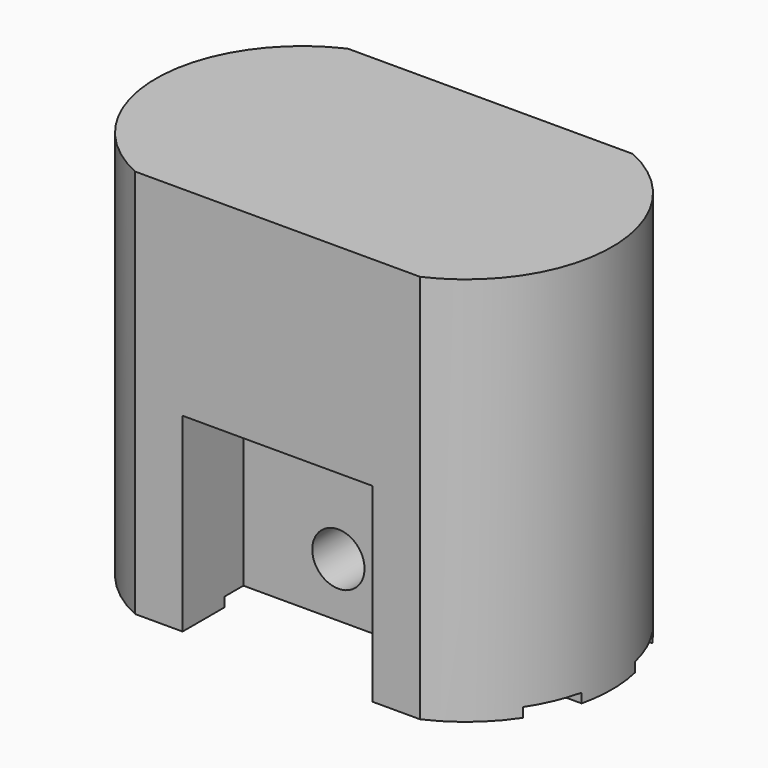
from build123d import *

# Parameters (mm, degrees)
F1_DEPTH = 65.0875
F2_W     = 31.75
F2_H     = 8.73125
F3_DEPTH = 31.75
F4_DEPTH = 1.5875
F6_D     = 8.7376


with BuildPart() as f1:
    # F0 (on Top) → F1 (new body)
    with BuildSketch(Plane.XY):
        with BuildLine():
            ThreePointArc((-23.8125, 22.225), (-38.1, 0), (-23.8125, -22.225))
            Line((-23.8125, -22.225), (23.8125, -22.225))
            ThreePointArc((23.8125, -22.225), (38.1, 0), (23.8125, 22.225))
            Line((23.8125, 22.225), (-23.8125, 22.225))
        make_face()
    extrude(amount=F1_DEPTH)

    # F2 (on face) → F3 (cut)
    with BuildSketch(Plane(origin=(0, 0, 0), x_dir=(1, 0, 0), z_dir=(0, 0, -1))):
        with Locations((0, 17.859375)):
            Rectangle(F2_W, F2_H)
        Polygon((15.875, 13.49375), (-15.875, 13.49375), (-15.875, 9.525), (0, 9.525), (15.875, 9.525), align=None)
        with Locations((0, -17.859375)):
            Rectangle(F2_W, F2_H)
        Polygon((-15.875, -9.525), (-15.875, -13.49375), (15.875, -13.49375), (15.875, -9.525), (0, -9.525), align=None)
    extrude(amount=-F3_DEPTH, mode=Mode.SUBTRACT)

    # F2 (on face) → F4 (cut)
    with BuildSketch(Plane(origin=(0, 0, 0), x_dir=(1, 0, 0), z_dir=(0, 0, -1))):
        with BuildLine():
            Line((-15.875, 13.49375), (-34.0352272718, 13.49375))
            ThreePointArc((-34.0352272718, 13.49375), (-36.1013811244, 9.6776797674), (-37.4597626742, 5.55625))
            Line((-37.4597626742, 5.55625), (37.4597626742, 5.55625))
            ThreePointArc((37.4597626742, 5.55625), (36.1013811244, 9.6776797674), (34.0352272718, 13.49375))
            Line((34.0352272718, 13.49375), (15.875, 13.49375))
            Line((15.875, 13.49375), (15.875, 9.525))
            Line((15.875, 9.525), (0, 9.525))
            Line((0, 9.525), (-15.875, 9.525))
            Line((-15.875, 9.525), (-15.875, 13.49375))
        make_face()
        with BuildLine():
            Line((37.4597626742, -5.55625), (-37.4597626742, -5.55625))
            ThreePointArc((-37.4597626742, -5.55625), (-36.1013811244, -9.6776797674), (-34.0352272718, -13.49375))
            Line((-34.0352272718, -13.49375), (-15.875, -13.49375))
            Line((-15.875, -13.49375), (-15.875, -9.525))
            Line((-15.875, -9.525), (0, -9.525))
            Line((0, -9.525), (15.875, -9.525))
            Line((15.875, -9.525), (15.875, -13.49375))
            Line((15.875, -13.49375), (34.0352272718, -13.49375))
            ThreePointArc((34.0352272718, -13.49375), (36.1013811244, -9.6776797674), (37.4597626742, -5.55625))
        make_face()
    extrude(amount=-F4_DEPTH, mode=Mode.SUBTRACT)

    # F6 (through all)
    with Locations(Plane.XZ.offset(9.525)):
        with Locations((0, 10.668)):
            Hole(F6_D / 2)


solid = f1.part
